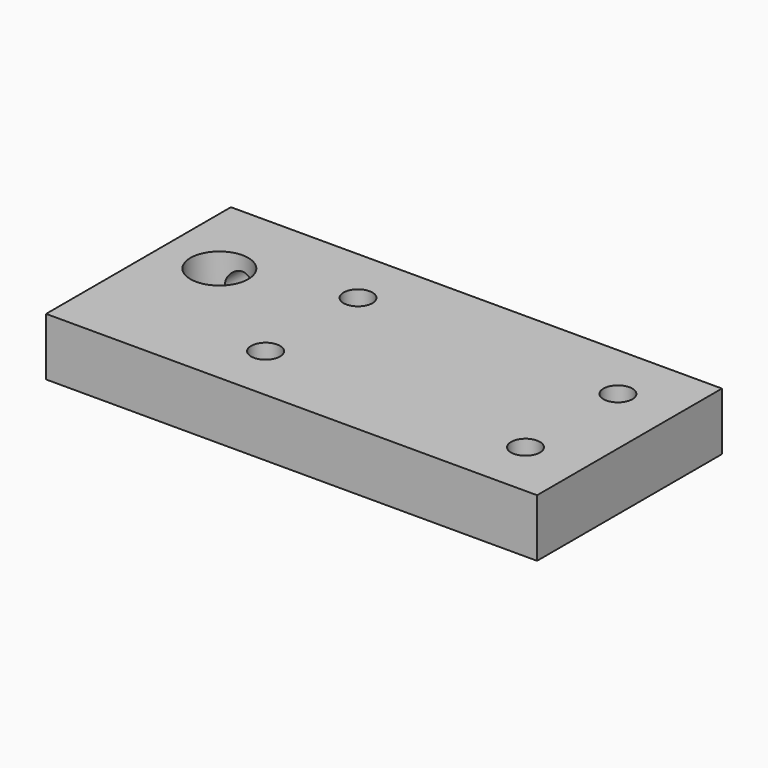
from build123d import *

# Parameters (mm, degrees)
F1_DEPTH = 12.7
F2_R     = 3.175
F3_DEPTH = 25.4
F4_R     = 6.35
F5_DEPTH = 25.4
F6_R     = 3.175
F7_DEPTH = 19.05


with BuildPart() as f1:
    # F0 (on Top) → F1 (new body)
    with BuildSketch(Plane.XY):
        Polygon((64.839908, 16.544953), (0, 16.544953), (-43.110092, 16.544953), (-43.110092, -34.255047), (64.839908, -34.255047), align=None)
    extrude(amount=F1_DEPTH)

    # F2 (on face) → F3 (cut)
    with BuildSketch(Plane.XY.offset(12.7)):
        with Locations((-5.010092, -21.555047)):
            Circle(F2_R)
        with Locations((-5.010092, 3.844953)):
            Circle(F2_R)
        with Locations((52.139908, 3.844953)):
            Circle(F2_R)
        with Locations((52.139908, -21.555047)):
            Circle(F2_R)
    extrude(amount=-F3_DEPTH, mode=Mode.SUBTRACT)

    # F4 (on face) → F5 (cut)
    with BuildSketch(Plane.XY.offset(12.7)):
        with Locations((-30.410092, -2.505047)):
            Circle(F4_R)
    extrude(amount=-F5_DEPTH, mode=Mode.SUBTRACT)

    # F6 (on face) → F7 (cut)
    with BuildSketch(Plane(origin=(0, 16.544953, 0), x_dir=(-1, 0, 0), z_dir=(0, 1, 0))):
        with Locations((30.410092, 6.35)):
            Circle(F6_R)
    extrude(amount=-F7_DEPTH, mode=Mode.SUBTRACT)


solid = f1.part
